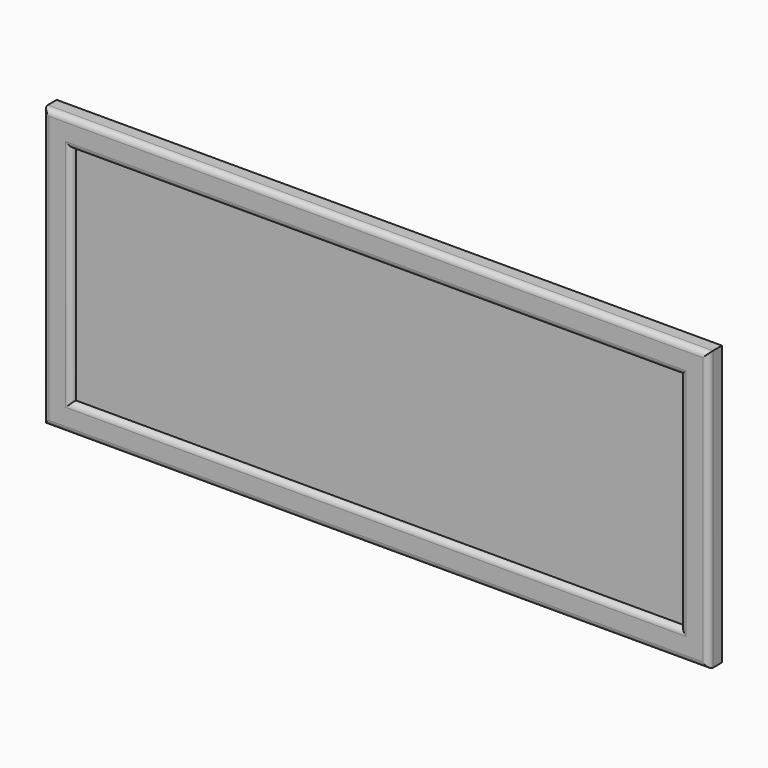
from build123d import *

# Parameters (mm, degrees)
F0_W     = 730.25
F0_H     = 295.275
F1_DEPTH = 12.7


with BuildPart() as f1:
    # F0 (on Front) → F1 (new body)
    with BuildSketch(Plane.XZ):
        Rectangle(F0_W, F0_H)
    extrude(amount=F1_DEPTH)


with BuildPart() as f3:
    # F3: sweep along a path in F3_path
    with BuildLine(Plane(origin=(365.125, -12.7, 147.6375), x_dir=(0, 0, -1), z_dir=(0, 1, 0))) as f3_path:
        Line((0, 0), (0, 730.25))
        Line((0, 730.25), (295.275, 730.25))
        Line((295.275, 730.25), (295.275, 0))
        Line((295.275, 0), (0, 0))
    # F2 (on face) → F3 (sweep)
    with BuildSketch(Plane.YZ.offset(365.125)):
        with BuildLine():
            Line((-12.7, 147.6375), (0, 147.6375))
            Line((0, 147.6375), (0, 157.1625))
            Line((0, 157.1625), (-12.7, 157.1625))
            ThreePointArc((-12.7, 157.1625), (-17.1901280605, 155.3026280605), (-19.05, 150.8125))
            Line((-19.05, 150.8125), (-19.05, 131.7625))
            ThreePointArc((-19.05, 131.7625), (-17.1901280605, 127.2723719395), (-12.7, 125.4125))
            Line((-12.7, 125.4125), (-12.7, 147.6375))
        make_face()
    sweep(path=f3_path.line, transition=Transition.RIGHT)


solid = Compound([f1.part, f3.part])
